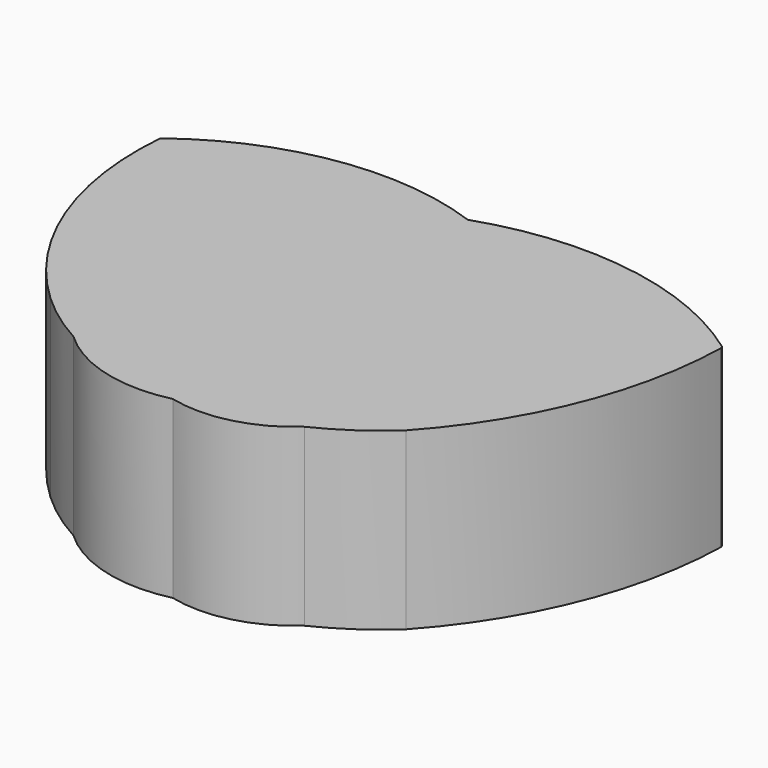
from build123d import *

# Parameters (mm, degrees)
F1_DEPTH = 3.96875


with BuildPart() as f1:
    # F0 (on Top) → F1 (new body)
    with BuildSketch(Plane.XY):
        with BuildLine():
            Line((6.357343, 3.599845), (6.327746, 3.651619))
            ThreePointArc((6.327746, 3.651619), (3.176014, 4.937132), (-0.214079, 4.631808))
            ThreePointArc((-0.214079, 4.631808), (-3.435517, 4.94244), (-6.411583, 3.670753))
            ThreePointArc((-6.411583, 3.670753), (-5.947905, 0.406573), (-4.103787, -2.326392))
            ThreePointArc((-4.103787, -2.326392), (-3.510246, -2.814569), (-2.860909, -3.225627))
            ThreePointArc((-2.860909, -3.225627), (-1.526453, -3.967149), (0, -3.991025))
            ThreePointArc((0, -3.991025), (1.319231, -3.988836), (2.482979, -3.367493))
            ThreePointArc((2.482979, -3.367493), (3.263503, -2.91503), (3.970517, -2.354611))
            ThreePointArc((3.970517, -2.354611), (5.704057, 0.406109), (6.357343, 3.599845))
        make_face()
    extrude(amount=F1_DEPTH)


solid = f1.part
